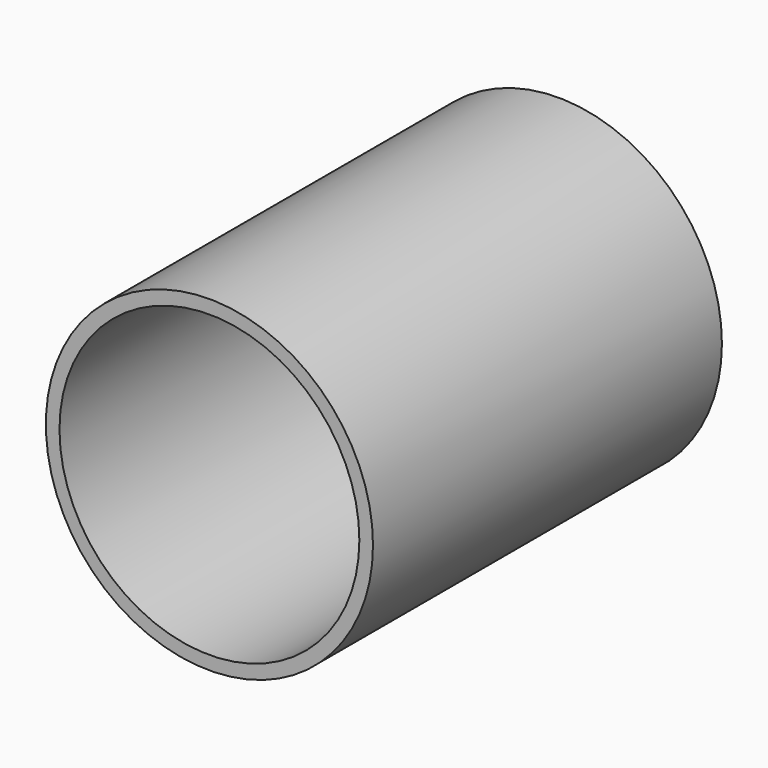
from build123d import *

# Parameters (mm, degrees)
F0_R      = 457.2
F0_R_2    = 419.1
F1_DEPTH  = 1219.2
F5_R      = 10
F6_DEPTH  = 103
F7_R      = 7.5
F8_DEPTH  = 103
F9_R      = 2.5
F10_DEPTH = 101
F11_R     = 1
F12_DEPTH = 102
F13_R     = 2.5
F14_DEPTH = 103
F15_R     = 2.5
F16_DEPTH = 105
F17_R     = 5
F18_DEPTH = 103


with BuildPart() as f1:
    # F0 (on Front) → F1 (new body)
    with BuildSketch(Plane.XZ):
        Circle(F0_R)
        Circle(F0_R_2, mode=Mode.SUBTRACT)
    extrude(amount=F1_DEPTH)

    # F5 (on offset) → F6 (cut)
    with BuildSketch(Plane(origin=(319.1, 0, 0), x_dir=(0, -1, 0), z_dir=(-1, 0, 0))):
        with Locations((152.4, 0)):
            Circle(F5_R)
    extrude(amount=-F6_DEPTH, mode=Mode.SUBTRACT)

    # F7 (on offset) → F8 (cut)
    with BuildSketch(Plane(origin=(319.1, 0, 0), x_dir=(0, -1, 0), z_dir=(-1, 0, 0))):
        with Locations((304.8, 0)):
            Circle(F7_R)
    extrude(amount=-F8_DEPTH, mode=Mode.SUBTRACT)

    # F9 (on offset) → F10 (cut)
    with BuildSketch(Plane(origin=(319.1, 0, 0), x_dir=(0, -1, 0), z_dir=(-1, 0, 0))):
        with Locations((457.2, 0)):
            Circle(F9_R)
    extrude(amount=-F10_DEPTH, mode=Mode.SUBTRACT)

    # F11 (on offset) → F12 (cut)
    with BuildSketch(Plane(origin=(319.1, 0, 0), x_dir=(0, -1, 0), z_dir=(-1, 0, 0))):
        with Locations((609.6, 0)):
            Circle(F11_R)
    extrude(amount=-F12_DEPTH, mode=Mode.SUBTRACT)

    # F13 (on offset) → F14 (cut)
    with BuildSketch(Plane(origin=(319.1, 0, 0), x_dir=(0, -1, 0), z_dir=(-1, 0, 0))):
        with Locations((762, 0)):
            Circle(F13_R)
    extrude(amount=-F14_DEPTH, mode=Mode.SUBTRACT)

    # F15 (on offset) → F16 (cut)
    with BuildSketch(Plane(origin=(319.1, 0, 0), x_dir=(0, -1, 0), z_dir=(-1, 0, 0))):
        with Locations((914.4, 0)):
            Circle(F15_R)
    extrude(amount=-F16_DEPTH, mode=Mode.SUBTRACT)

    # F17 (on offset) → F18 (cut)
    with BuildSketch(Plane(origin=(319.1, 0, 0), x_dir=(0, -1, 0), z_dir=(-1, 0, 0))):
        with Locations((1066.8, 0)):
            Circle(F17_R)
    extrude(amount=-F18_DEPTH, mode=Mode.SUBTRACT)


solid = f1.part
